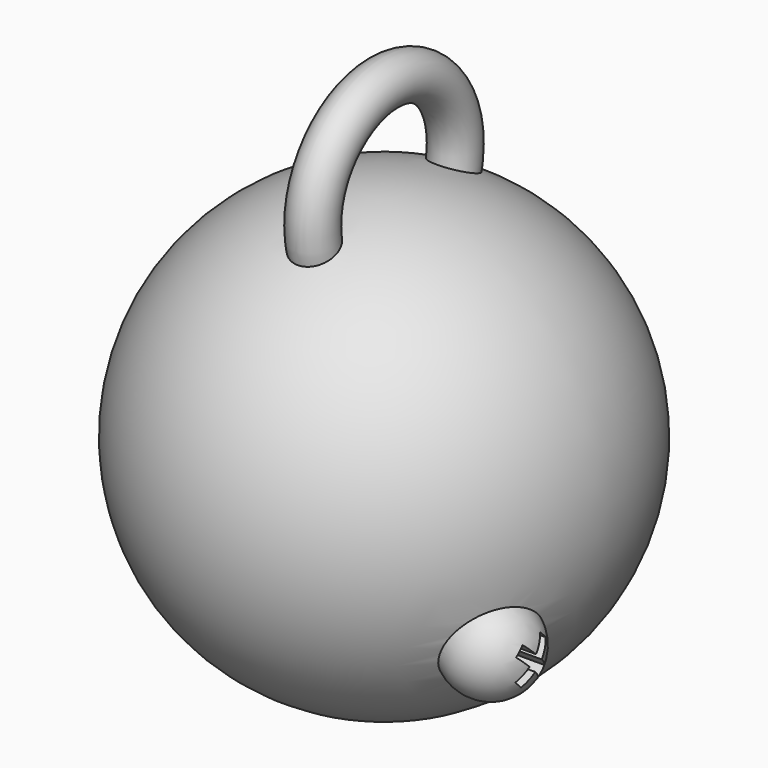
from build123d import *

# Parameters (mm, degrees)
BOX_W             = 10
BOX_H             = 2.5
BOX_DEPTH         = 10
BOX_ROLL_ANGLE    = 45
BOX001_W          = 10
BOX001_H          = 2.5
BOX001_DEPTH      = 10
BOX001_ROLL_ANGLE = -45
TORUS_R           = 5
TORUS_PITCH_ANGLE = 90


with BuildPart() as obj1:
    # Box → Box (new body)
    with BuildSketch(Plane.XY):
        with Locations((5, 1.25)):
            Rectangle(BOX_W, BOX_H)
    extrude(amount=BOX_DEPTH)


with BuildPart() as obj1_1:
    # Box roll: moved
    add(obj1.part.rotate(Axis((0, 0, 0), (1, 0, 0)), BOX_ROLL_ANGLE))


with BuildPart() as obj1_2:
    # Box placement: moved
    add(obj1_1.part.moved(Location((42, -17, -25))))


with BuildPart() as obj2:
    # Box001 → Box001 (new body)
    with BuildSketch(Plane.XY):
        with Locations((5, 1.25)):
            Rectangle(BOX001_W, BOX001_H)
    extrude(amount=BOX001_DEPTH)


with BuildPart() as obj2_1:
    # Box001 roll: moved
    add(obj2.part.rotate(Axis((0, 0, 0), (1, 0, 0)), BOX001_ROLL_ANGLE))


with BuildPart() as obj2_2:
    # Box001 placement: moved
    add(obj2_1.part.moved(Location((42, -24, -23))))


with BuildPart() as obj3:
    # Torus → Torus (revolve)
    with BuildSketch(Plane.XZ):
        with Locations((20, 0)):
            Circle(TORUS_R)
    revolve(axis=Axis((0, 0, 0), (0, 0, 1)))


with BuildPart() as obj3_1:
    # Torus pitch: moved
    add(obj3.part.rotate(Axis((0, 0, 0), (0, 1, 0)), TORUS_PITCH_ANGLE))


with BuildPart() as obj3_2:
    # Torus placement: moved
    add(obj3_1.part.moved(Location((0, 0, 50))))


with BuildPart() as obj4:
    # Sphere001 → Sphere001 (revolve)
    with BuildSketch(Plane(origin=(40, -20, -20), x_dir=(1, 0, 0), z_dir=(0, -1, 0))):
        with BuildLine():
            ThreePointArc((0, -10), (10, 0), (0, 10))
            Line((0, 10), (0, -10))
        make_face()
    revolve(axis=Axis((40, -20, -20), (0, 0, 1)))


with BuildPart() as cut001:
    # Sphere → Sphere (revolve)
    with BuildSketch(Plane.XZ):
        with BuildLine():
            ThreePointArc((0, -50), (50, 0), (0, 50))
            Line((0, 50), (0, -50))
        make_face()
    revolve(axis=Axis((0, 0, 0), (0, 0, 1)))

    # Fusion: union obj4
    add(obj4.part)

    # Fusion001: union obj3
    add(obj3_2.part)

    # Cut: cut obj2
    add(obj2_2.part, mode=Mode.SUBTRACT)

    # Cut001: cut obj1
    add(obj1_2.part, mode=Mode.SUBTRACT)


solid = cut001.part
